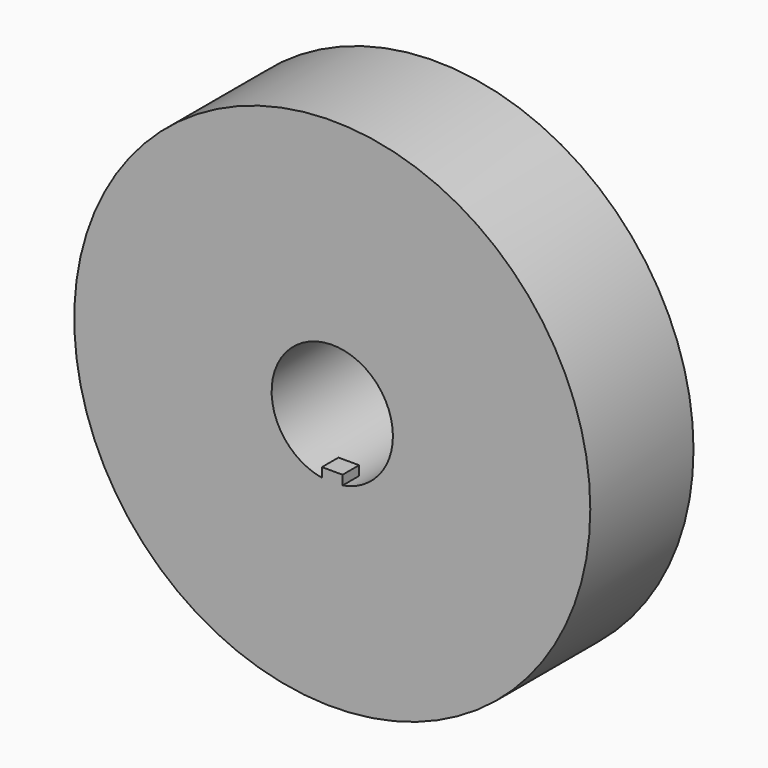
from build123d import *

# Parameters (mm, degrees)
F0_R     = 12.7
F0_R_2   = 2.9845
F1_DEPTH = 6.35
F2_W     = 1.016
F2_H     = 1.016
F3_DEPTH = 1.016


with BuildPart() as f1:
    # F0 (on Front) → F1 (new body)
    with BuildSketch(Plane.XZ):
        Circle(F0_R)
        Circle(F0_R_2, mode=Mode.SUBTRACT)
    extrude(amount=F1_DEPTH)

    # F2 (on face) → F3 (join)
    with BuildSketch(Plane.XZ.offset(6.35)):
        with Locations((0, -2.9845)):
            Rectangle(F2_W, F2_H)
    extrude(amount=-F3_DEPTH)


solid = f1.part
